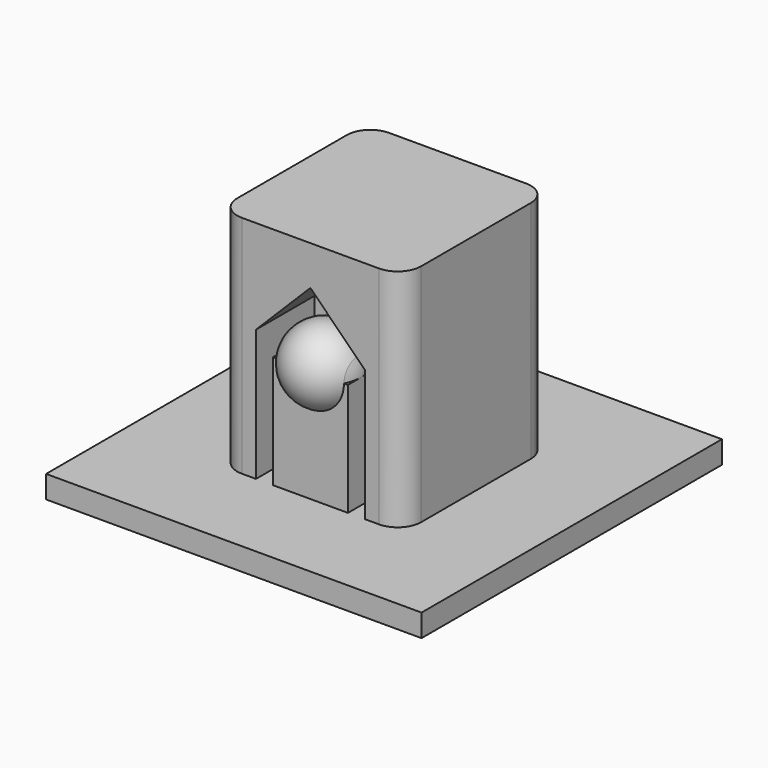
from build123d import *

# Parameters (mm, degrees)
F0_W     = 25.4
F0_H     = 25.4
F1_DEPTH = 1.524
F3_DEPTH = 15.24
F2_W     = 5.08
F2_H     = 3.175
F4_DEPTH = 7.62
F9_DEPTH = 12.446
F10_R    = 1.5875


with BuildPart() as f1:
    # F0 (on Top) → F1 (new body)
    with BuildSketch(Plane.XY):
        Rectangle(F0_W, F0_H)
    extrude(amount=F1_DEPTH)

    # F2 (on face) → F3 (join)
    with BuildSketch(Plane.XY.offset(1.524)):
        Polygon((6.223, -6.223), (6.223, 6.223), (3.683, 6.223), (3.683, 1.27), (-3.683, 1.27), (-3.683, 6.223), (-6.223, 6.223), (-6.223, -6.223), (-3.683, -6.223), (-3.683, -1.27), (3.683, -1.27), (3.683, -6.223), align=None)
    extrude(amount=F3_DEPTH)

    # F2 (on face) → F4 (join)
    with BuildSketch(Plane.XY.offset(1.524)):
        with Locations((0, -4.6355)):
            Rectangle(F2_W, F2_H)
        with Locations((0, 4.6355)):
            Rectangle(F2_W, F2_H)
    extrude(amount=F4_DEPTH)

    # F5 (on face) → F6 (revolve)
    with BuildSketch(Plane.XY.offset(9.144)):
        with BuildLine():
            Line((-2.54, 5.08), (2.54, 5.08))
            ThreePointArc((2.54, 5.08), (0, 7.62), (-2.54, 5.08))
        make_face()
    revolve(axis=Axis((0, 5.08, 9.144), (-1, 0, 0)))

    # F5 (on face) → F7 (revolve)
    with BuildSketch(Plane.XY.offset(9.144)):
        with BuildLine():
            ThreePointArc((-2.2682925296, -6.223), (0, -7.62), (2.2682925296, -6.223))
            Line((2.2682925296, -6.223), (-2.2682925296, -6.223))
        make_face()
        with BuildLine():
            ThreePointArc((2.2682925296, -6.223), (2.4711397194, -5.6674253036), (2.54, -5.08))
            Line((2.54, -5.08), (-2.54, -5.08))
            ThreePointArc((-2.54, -5.08), (-2.4711397194, -5.6674253036), (-2.2682925296, -6.223))
            Line((-2.2682925296, -6.223), (2.2682925296, -6.223))
        make_face()
    revolve(axis=Axis((0, -5.08, 9.144), (-1, 0, 0)))

    # F8 (on face) → F9 (join)
    with BuildSketch(Plane(origin=(0, 6.223, 0), x_dir=(-1, 0, 0), z_dir=(0, 1, 0))):
        Polygon((-3.683, 16.764), (-3.683, 10.414), (0, 14.097), (3.683, 10.414), (3.683, 16.764), align=None)
    extrude(amount=-F9_DEPTH)

    # F10
    f10_edges = [f1.edges().sort_by_distance(p)[0] for p in [
        (-6.223, -6.223, 9.144),
        (-6.223, 6.223, 9.144),
        (6.223, 6.223, 9.144),
        (6.223, -6.223, 9.144),
    ]]
    fillet(f10_edges, radius=F10_R)


solid = f1.part
